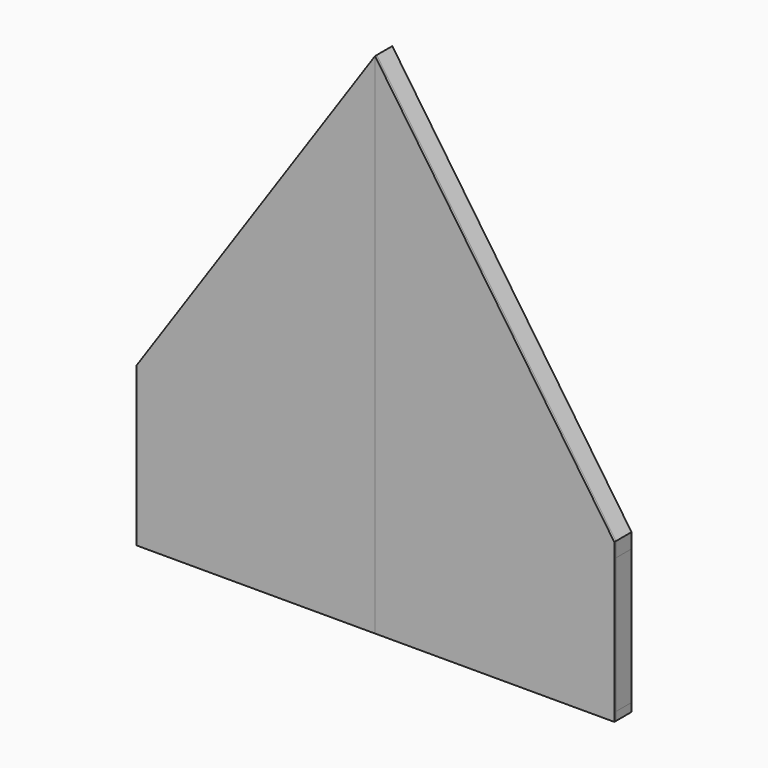
from build123d import *

# Parameters (mm, degrees)
F1_DEPTH = 88.9
F2_DEPTH = 88.9
F3_DEPTH = 88.9
F5_DEPTH = 9.525
F6_DEPTH = 9.525


with BuildPart() as f1:
    # F0 (on Front) → F1 (new body)
    with BuildSketch(Plane.XZ):
        Polygon((-1090.6967822675, 637.3294345384), (-1090.6967822675, 19.05), (-1052.5967822675, 19.05), (-1052.5967822675, 693.2272981713), align=None)
    extrude(amount=F1_DEPTH)


with BuildPart() as f1b:
    # F0 (on Front) → F1, piece 2 (new body)
    with BuildSketch(Plane.XZ):
        Polygon((-857.25, 979.8275027988), (-857.25, 19.05), (-819.15, 19.05), (-819.15, 1035.5984547879), align=None)
    extrude(amount=F1_DEPTH)


with BuildPart() as f1c:
    # F0 (on Front) → F1, piece 3 (new body)
    with BuildSketch(Plane.XZ):
        Polygon((-412.75, 19.05), (-412.75, 1631.9692451823), (-450.85, 1576.0713815494), (-450.85, 19.05), align=None)
    extrude(amount=F1_DEPTH)


with BuildPart() as f1d:
    # F0 (on Front) → F1, piece 4 (new body)
    with BuildSketch(Plane.XZ):
        Polygon((44.45, 2172.4945248419), (0, 2237.5294345384), (-44.45, 2172.3152603001), (-44.45, 19.05), (44.45, 19.05), align=None)
    extrude(amount=F1_DEPTH)


with BuildPart() as f1e:
    # F0 (on Front) → F1, piece 5 (new body)
    with BuildSketch(Plane.XZ):
        Polygon((412.75, 19.05), (450.85, 19.05), (450.85, 1577.8896361883), (412.75, 1633.6338444996), align=None)
    extrude(amount=F1_DEPTH)


with BuildPart() as f1f:
    # F0 (on Front) → F1, piece 6 (new body)
    with BuildSketch(Plane.XZ):
        Polygon((819.15, 19.05), (857.25, 19.05), (857.25, 983.2847475346), (819.15, 1039.0289558459), align=None)
    extrude(amount=F1_DEPTH)


with BuildPart() as f1g:
    # F0 (on Front) → F1, piece 7 (new body)
    with BuildSketch(Plane.XZ):
        Polygon((1055.6032177325, 19.05), (1093.7032177325, 19.05), (1093.7032177325, 637.3294345384), (1055.6032177325, 693.0736428497), align=None)
    extrude(amount=F1_DEPTH)


with BuildPart() as f2:
    # F0 (on Front) → F2 (new body)
    with BuildSketch(Plane.XZ):
        Polygon((0, 2237.5294345384), (0, 2305.05), (-1090.6967822675, 704.85), (-1052.5967822675, 704.85), (-1052.5967822675, 693.2272981713), (-857.25, 979.8275027988), (-450.85, 1576.0713815494), (-412.75, 1631.9692451823), (-44.45, 2172.3152603001), align=None)
        Polygon((-1090.6967822675, 704.85), (-1090.6967822675, 637.3294345384), (-1052.5967822675, 693.2272981713), (-1052.5967822675, 704.85), align=None)
    extrude(amount=F2_DEPTH)


with BuildPart() as f2b:
    # F0 (on Front) → F2, piece 2 (new body)
    with BuildSketch(Plane.XZ):
        Polygon((1093.7032177325, -19.05), (1093.7032177325, 19.05), (1055.6032177325, 19.05), (857.25, 19.05), (819.15, 19.05), (450.85, 19.05), (412.75, 19.05), (44.45, 19.05), (-44.45, 19.05), (-412.75, 19.05), (-450.85, 19.05), (-819.15, 19.05), (-857.25, 19.05), (-1052.5967822675, 19.05), (-1090.6967822675, 19.05), (-1090.6967822675, -19.05), align=None)
    extrude(amount=F2_DEPTH)


with BuildPart() as f3:
    # F0 (on Front) → F3 (new body)
    with BuildSketch(Plane.XZ):
        Polygon((857.25, 983.2847475346), (1055.6032177325, 693.0736428497), (1055.6032177325, 704.85), (1093.7032177325, 704.85), (0, 2305.05), (0, 2237.5294345384), (44.45, 2172.4945248419), (412.75, 1633.6338444996), (450.85, 1577.8896361883), (819.15, 1039.0289558459), align=None)
        Polygon((1055.6032177325, 693.0736428497), (1093.7032177325, 637.3294345384), (1093.7032177325, 704.85), (1055.6032177325, 704.85), align=None)
    extrude(amount=F3_DEPTH)


with BuildPart() as f5:
    # F4 (on face) → F5 (new body)
    with BuildSketch(Plane.XZ.offset(88.9)):
        Polygon((0, 2237.5294345384), (0, 2305.05), (-1090.6967822675, 704.85), (-1090.6967822675, 637.3294345384), (-1090.6967822675, 19.05), (-1090.6967822675, -19.05), (0, -19.05), (0, 19.05), (-44.45, 19.05), (-44.45, 2172.3152603001), align=None)
        Polygon((0, 19.05), (0, 2237.5294345384), (-44.45, 2172.3152603001), (-44.45, 19.05), align=None)
    extrude(amount=F5_DEPTH)


with BuildPart() as f6:
    # F4 (on face) → F6 (new body)
    with BuildSketch(Plane.XZ.offset(88.9)):
        Polygon((1093.7032177325, 704.85), (0, 2305.05), (0, 2237.5294345384), (44.45, 2172.4945248419), (44.45, 19.05), (0, 19.05), (0, -19.05), (1093.7032177325, -19.05), (1093.7032177325, 19.05), (1093.7032177325, 637.3294345384), align=None)
        Polygon((44.45, 2172.4945248419), (0, 2237.5294345384), (0, 19.05), (44.45, 19.05), align=None)
    extrude(amount=F6_DEPTH)


solid = Compound([f1.part, f1b.part, f1c.part, f1d.part, f1e.part, f1f.part, f1g.part, f2.part, f2b.part, f3.part, f5.part, f6.part])
